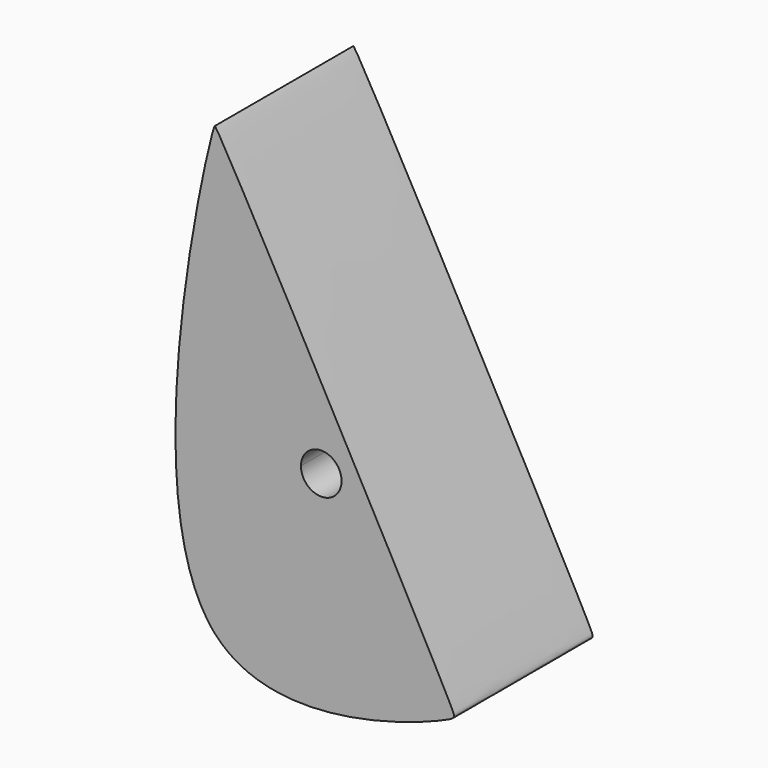
from build123d import *

# Parameters (mm, degrees)
F1_DEPTH = 25.4
F3_DEPTH = 25.4


with BuildPart() as f1:
    # F0 (on Front) → F1 (new body)
    with BuildSketch(Plane.XZ):
        with BuildLine():
            add(Edge.make_bspline(
                [(0, 65.3415620327), (-0.9807187623, 62.9984271725), (-12.3293417478, 14.0205244221), (0, 0)],
                knots=[0, 0, 0, 0, 0.333918082, 0.333918082, 0.333918082, 0.333918082], degree=3))
            Line((0, 0), (0, 65.3415620327))
        make_face()
        with BuildLine():
            Line((0, 65.3415620327), (0, 0))
            Line((0, 0), (34.3999378383, 0))
            add(Edge.make_bspline(
                [(34.3999378383, 0), (35.3429576773, 0.4530598594), (35.3275782315, 1.2528593088), (0.5780810952, 65.5676734241), (0.0471041991, 65.4541034617), (0, 65.3415620327)],
                knots=[0.5762016774, 0.5762016774, 0.5762016774, 0.5762016774, 0.6327198794, 0.9839618202, 1, 1, 1, 1], degree=3))
        make_face()
        with BuildLine():
            Line((34.3999378383, 0), (0, 0))
            add(Edge.make_bspline(
                [(0, 0), (8.9458984378, -10.1729832858), (30.3573775814, -1.9421879647), (34.3999378383, 0)],
                knots=[0.333918082, 0.333918082, 0.333918082, 0.333918082, 0.5762016774, 0.5762016774, 0.5762016774, 0.5762016774], degree=3))
        make_face()
    extrude(amount=F1_DEPTH)

    # F2 (on face) → F3 (cut, through all)
    with BuildSketch(Plane(origin=(0, 0, 0), x_dir=(-1, 0, 0), z_dir=(0, 1, 0))):
        with BuildLine():
            ThreePointArc((-13.9238198233, 28.0538285248), (-18.0900508109, 27.4032922149), (-17.439514501, 23.2370612274))
            Line((-17.439514501, 23.2370612274), (-13.9238198233, 28.0538285248))
        make_face()
        with BuildLine():
            Line((-13.9238198233, 28.0538285248), (-17.439514501, 23.2370612274))
            ThreePointArc((-17.439514501, 23.2370612274), (-14.3309222973, 22.9872824702), (-12.7, 25.6454448761))
            ThreePointArc((-12.7, 25.6454448761), (-13.0235047563, 26.9961897409), (-13.9238198233, 28.0538285248))
        make_face()
    extrude(amount=-F3_DEPTH, mode=Mode.SUBTRACT)


solid = f1.part
